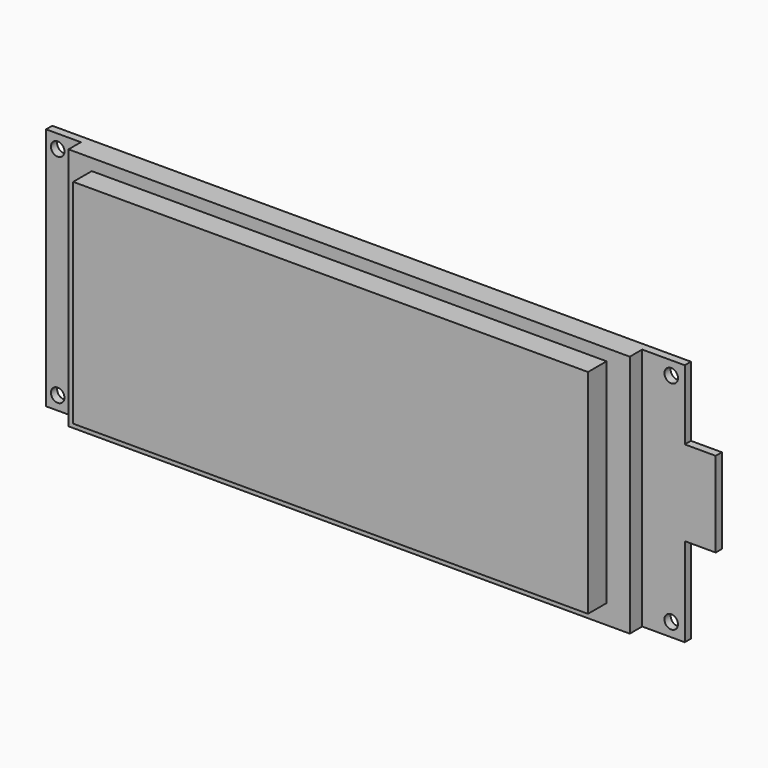
from build123d import *

# Parameters (mm, degrees)
F0_W     = 158.5
F0_H     = 56
F0_H_2   = 3.5
F0_W_2   = 3
F0_W_3   = 3.5
F1_DEPTH = 2
F2_D     = 3.5
F3_W     = 145
F3_H     = 63
F4_DEPTH = 4
F5_W     = 2
F5_H     = 22
F6_DEPTH = 8
F7_W     = 133
F7_H     = 55
F8_DEPTH = 6


with BuildPart() as f1:
    # F0 (on Front) → F1 (new body)
    with BuildSketch(Plane.XZ):
        with Locations((7.3379711658, -9.6212180674)):
            Rectangle(F0_W, F0_H)
        with Locations((7.3379711658, 20.1287819326)):
            Rectangle(F0_W, F0_H_2)
        with Locations((-73.4120288342, -9.6212180674)):
            Rectangle(F0_W_2, F0_H)
        with Locations((-73.4120288342, 20.1287819326)):
            Rectangle(F0_W_2, F0_H_2)
        with Locations((-73.4120288342, -39.3712180674)):
            Rectangle(F0_W_2, F0_H_2)
        with Locations((7.3379711658, -39.3712180674)):
            Rectangle(F0_W, F0_H_2)
        with Locations((88.3379711658, 20.1287819326)):
            Rectangle(F0_W_3, F0_H_2)
        with Locations((88.3379711658, -9.6212180674)):
            Rectangle(F0_W_3, F0_H)
        with Locations((88.3379711658, -39.3712180674)):
            Rectangle(F0_W_3, F0_H_2)
    extrude(amount=F1_DEPTH)

    # F2 (through all)
    with Locations(Plane(origin=(0, 0, 0), x_dir=(1, 0, 0), z_dir=(0, 1, 0))):
        with Locations((-71.9120288342, -18.3787819326), (86.5879711658, -18.3787819326), (86.5879711658, 37.6212180674), (-71.9120288342, 37.6212180674)):
            Hole(F2_D / 2)

    # F3 (on face) → F4 (join)
    with BuildSketch(Plane.XZ.offset(2)):
        with Locations((6.5879711658, -9.6212180674)):
            Rectangle(F3_W, F3_H)
    extrude(amount=F4_DEPTH)

    # F5 (on face) → F6 (join)
    with BuildSketch(Plane.YZ.offset(90.0879711658)):
        with Locations((-1, -7.1212180674)):
            Rectangle(F5_W, F5_H)
    extrude(amount=F6_DEPTH)

    # F7 (on face) → F8 (join)
    with BuildSketch(Plane.XZ.offset(6)):
        with Locations((6.5879711658, -8.6212180674)):
            Rectangle(F7_W, F7_H)
    extrude(amount=F8_DEPTH)


solid = f1.part
